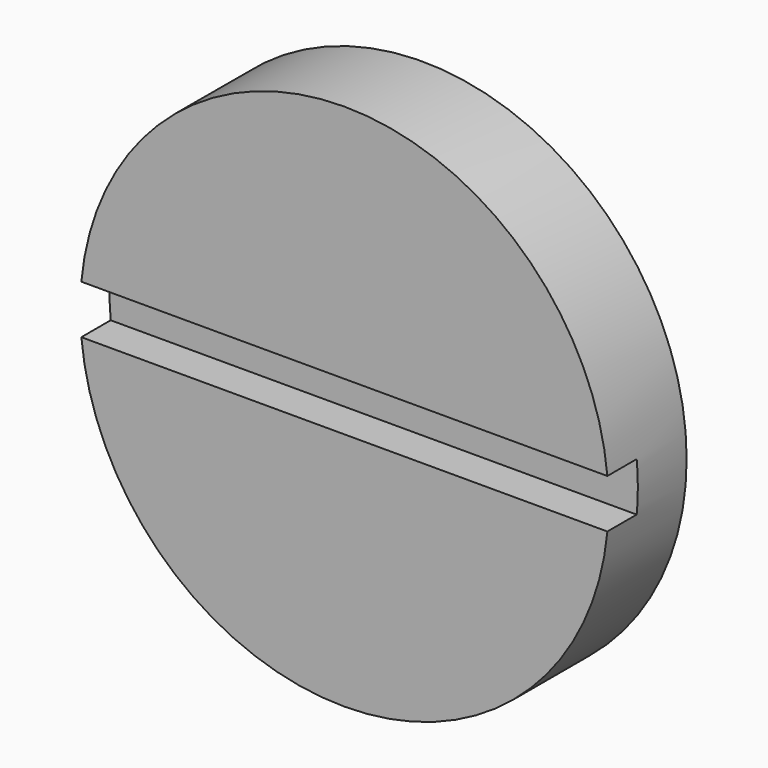
from build123d import *

# Parameters (mm, degrees)
F0_R     = 10.815
F1_DEPTH = 4
F2_W     = 1.5
F2_H     = 2
F3_DEPTH = 12.5


with BuildPart() as f1:
    # F0 (on Front) → F1 (new body)
    with BuildSketch(Plane.XZ):
        Circle(F0_R)
    extrude(amount=-F1_DEPTH)

    # F2 (on Right) → F3 (cut, symmetric)
    with BuildSketch(Plane.YZ):
        with Locations((0.75, 0)):
            Rectangle(F2_W, F2_H)
    extrude(amount=F3_DEPTH, both=True, mode=Mode.SUBTRACT)


solid = f1.part
